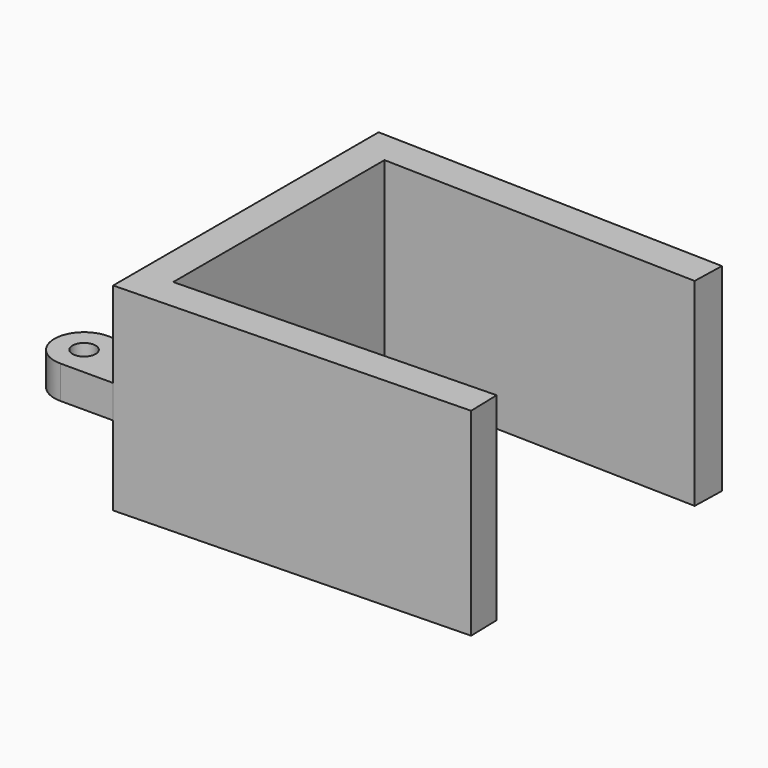
from build123d import *

# Parameters (mm, degrees)
F1_DEPTH = 30
F3_R     = 1.75
F4_DEPTH = 5


with BuildPart() as f1:
    # F0 (on Top) → F1 (new body)
    with BuildSketch(Plane.XY):
        Polygon((0, -20), (0, 0), (0, 20), (47.983552, 18.743506), (48.114436, 23.741793), (-5, 25.132644), (-5, 0), (-5, -25.132644), (48.114436, -23.741793), (47.983552, -18.743506), align=None)
    extrude(amount=F1_DEPTH)

    # F3 (on offset) → F4 (join)
    with BuildSketch(Plane.XY.offset(12)):
        with BuildLine():
            Line((-13, -25.132644), (-5, -25.132644))
            Line((-5, -25.132644), (-5, -16.132644))
            Line((-5, -16.132644), (-13, -16.132644))
            ThreePointArc((-13, -16.132644), (-17.5, -20.632644), (-13, -25.132644))
        make_face()
        with Locations((-13, -20.632644)):
            Circle(F3_R, mode=Mode.SUBTRACT)
    extrude(amount=F4_DEPTH)


solid = f1.part
